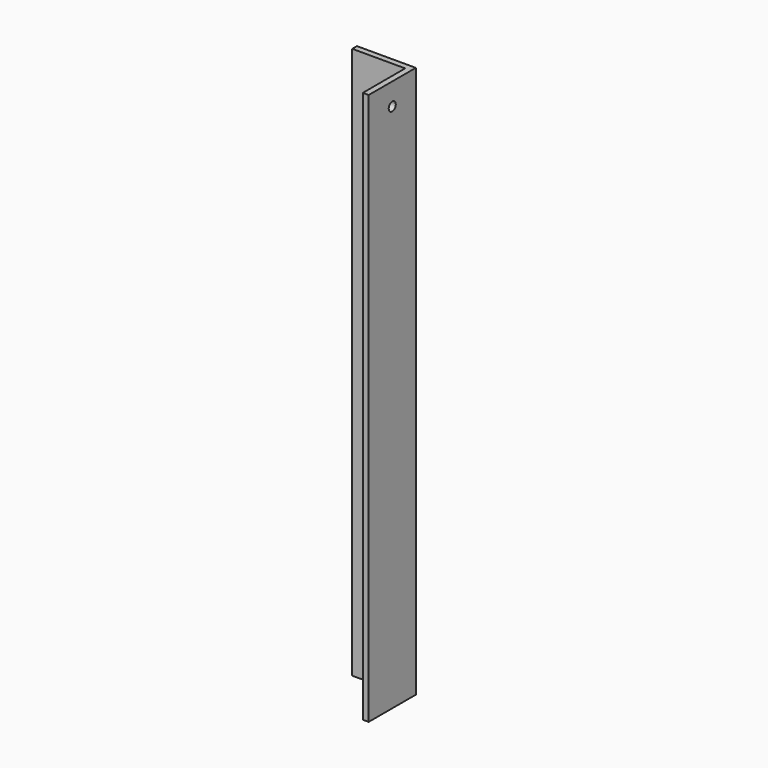
from build123d import *

# Parameters (mm, degrees)
CYLINDER003_R     = 6
CYLINDER003_DEPTH = 900
CYLINDER001_R     = 6
CYLINDER001_DEPTH = 1300
BOX007_W          = 80
BOX007_H          = 80
BOX007_DEPTH      = 750
BOX006_W          = 80
BOX006_H          = 80
BOX006_DEPTH      = 750


with BuildPart() as cylinder003:
    # Cylinder003 → Cylinder003 (new body)
    with BuildSketch(Plane(origin=(1240, -10, 700), x_dir=(1, 0, 0), z_dir=(0, 1, 0))):
        Circle(CYLINDER003_R)
    extrude(amount=CYLINDER003_DEPTH)


with BuildPart() as cylinder001:
    # Cylinder001 → Cylinder001 (new body)
    with BuildSketch(Plane(origin=(-10, 840, 720), x_dir=(0, 0, -1), z_dir=(1, 0, 0))):
        Circle(CYLINDER001_R)
    extrude(amount=CYLINDER001_DEPTH)


with BuildPart() as cube007:
    # Box007 → Box007 (new body)
    with BuildSketch(Plane(origin=(1192, 792, 0), x_dir=(1, 0, 0), z_dir=(0, 0, 1))):
        with Locations((40, 40)):
            Rectangle(BOX007_W, BOX007_H)
    extrude(amount=BOX007_DEPTH)


with BuildPart() as cut010:
    # Box006 → Box006 (new body)
    with BuildSketch(Plane(origin=(1200, 800, 0), x_dir=(1, 0, 0), z_dir=(0, 0, 1))):
        with Locations((40, 40)):
            Rectangle(BOX006_W, BOX006_H)
    extrude(amount=BOX006_DEPTH)

    # Cut003: cut Cube007
    add(cube007.part, mode=Mode.SUBTRACT)

    # Cut009: cut Cylinder001
    add(cylinder001.part, mode=Mode.SUBTRACT)

    # Cut010: cut Cylinder003
    add(cylinder003.part, mode=Mode.SUBTRACT)


solid = cut010.part
